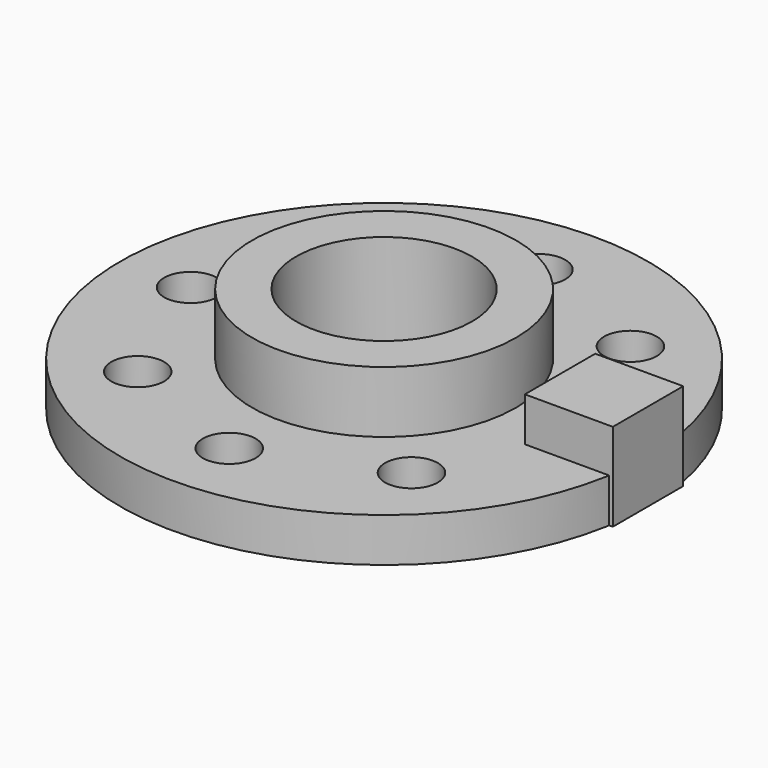
from build123d import *

# Parameters (mm, degrees)
BOX_W             = 10
BOX_H             = 10
BOX_DEPTH         = 10
CYLINDER003_R     = 3
CYLINDER003_DEPTH = 14
ARRAY001_COUNT    = 8
CYLINDER002_R     = 10
CYLINDER002_DEPTH = 30
CYLINDER001_R     = 15
CYLINDER001_DEPTH = 12
CYLINDER_R        = 30
CYLINDER_DEPTH    = 5


with BuildPart() as master_cube:
    # Box → Box (new body)
    with BuildSketch(Plane(origin=(20, -5, 0), x_dir=(1, 0, 0), z_dir=(0, 0, 1))):
        with Locations((5, 5)):
            Rectangle(BOX_W, BOX_H)
    extrude(amount=BOX_DEPTH)


with BuildPart() as taladros:
    # Cylinder003 → Cylinder003 (new body)
    with BuildSketch(Plane(origin=(22, 0, 0), x_dir=(1, 0, 0), z_dir=(0, 0, 1))):
        Circle(CYLINDER003_R)
    extrude(amount=CYLINDER003_DEPTH)

    # Array001: Taladros ×8 about axis
    array001_axis = Axis((0, 0, 0), (0, 0, 1))


with BuildPart() as taladros_1:
    add(taladros.part)
    for i in range(1, ARRAY001_COUNT):
        add(taladros.part.rotate(array001_axis, i * 360 / ARRAY001_COUNT))


with BuildPart() as tubointerior:
    # Cylinder002 → Cylinder002 (new body)
    with BuildSketch(Plane.XY):
        Circle(CYLINDER002_R)
    extrude(amount=CYLINDER002_DEPTH)


with BuildPart() as tubo_exterior:
    # Cylinder001 → Cylinder001 (new body)
    with BuildSketch(Plane.XY):
        Circle(CYLINDER001_R)
    extrude(amount=CYLINDER001_DEPTH)


with BuildPart() as obj1:
    # Cylinder → Cylinder (new body)
    with BuildSketch(Plane.XY):
        Circle(CYLINDER_R)
    extrude(amount=CYLINDER_DEPTH)

    # Fusion: union Tubo_exterior
    add(tubo_exterior.part)

    # Cut: cut Tubointerior
    add(tubointerior.part, mode=Mode.SUBTRACT)

    # Cut001: cut Taladros
    add(taladros_1.part, mode=Mode.SUBTRACT)


solid = Compound([master_cube.part, obj1.part])
